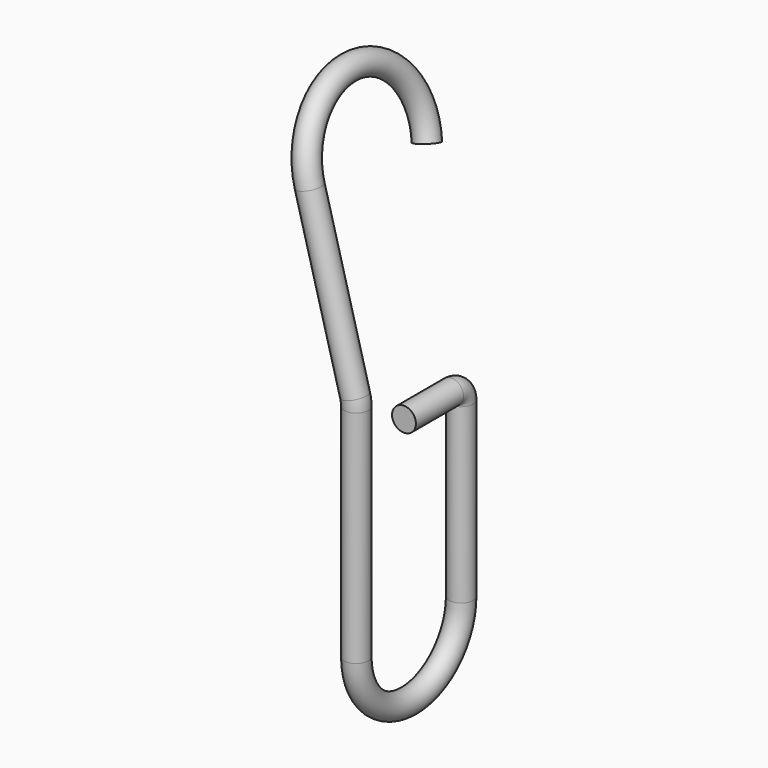
from build123d import *

# Parameters (mm, degrees)
F1_R = 1


with BuildPart() as f6:
    # F6: sweep along a path in F0, F3, F5
    with BuildLine(Plane.YZ) as f6_path:
        Line((0, 0), (5, 0))
        ThreePointArc((5, 0), (5.7071067812, -0.2928932188), (6, -1))
        Line((6, -1), (6, -15.5))
        ThreePointArc((6, -15.5), (0.5, -21), (-5, -15.5))
        Line((-5, -15.5), (-5, 3))
    with BuildLine(Plane.XZ.offset(5)) as f6_path_2:
        ThreePointArc((0, 3), (-0.0256654159, 3.3915785767), (-0.1022225211, 3.7764571353))
        Line((-0.1022225211, 3.7764571353), (-3.9134093452, 18))
    with BuildLine(Plane(origin=(0.8487393732, 0, 0.2274190296), x_dir=(0, 1, 0), z_dir=(0.9659258263, 0, 0.2588190451))) as f6_path_3:
        ThreePointArc((6.8094750193, 16.899529743), (1.7560257549, 24.3517079206), (-5, 18.399529743))
    # F1 (on Front) → F6 (sweep)
    with BuildSketch(Plane.XZ):
        Circle(F1_R)
    sweep(path=f6_path.line + f6_path_2.line + f6_path_3.line)


solid = f6.part
